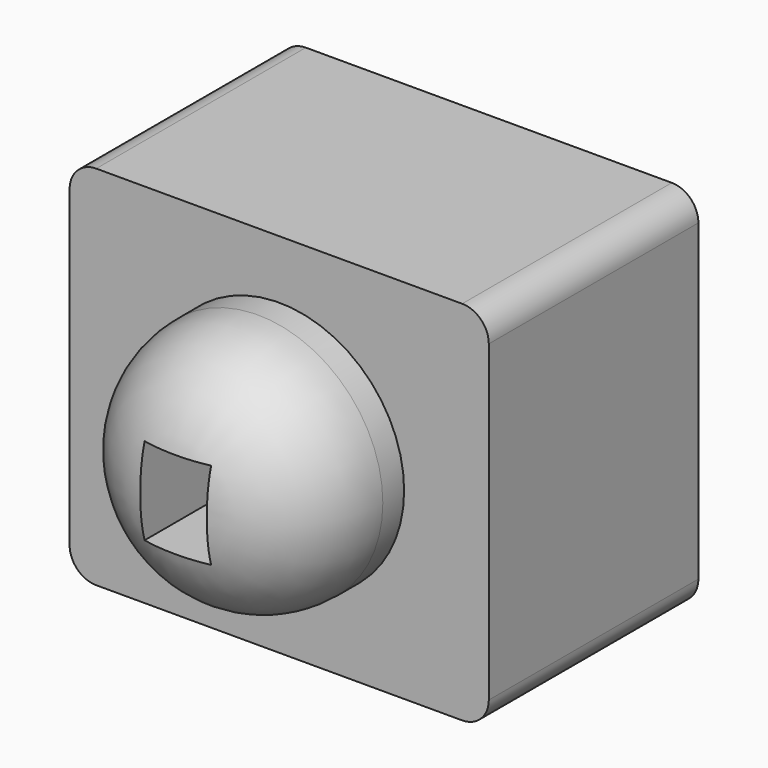
from build123d import *

# Parameters (mm, degrees)
F0_W     = 80
F0_H     = 70
F1_DEPTH = 50
F2_R     = 23.84042
F3_DEPTH = 25.4
F4_R     = 5.08
F5_R     = 20.32
F6_W     = 12.7
F6_H     = 16.662312
F7_DEPTH = 75.4


with BuildPart() as f1:
    # F0 (on Front) → F1 (new body)
    with BuildSketch(Plane.XZ):
        Rectangle(F0_W, F0_H)
    extrude(amount=F1_DEPTH)

    # F2 (on face) → F3 (join)
    with BuildSketch(Plane.XZ.offset(50)):
        Circle(F2_R)
    extrude(amount=F3_DEPTH)

    # F4
    f4_edges = [f1.edges().sort_by_distance(p)[0] for p in [
        (40, -25, 35),
        (40, -25, -35),
        (-40, -25, 35),
        (-40, -25, -35),
    ]]
    fillet(f4_edges, radius=F4_R)

    # F5
    f5_edges = [f1.edges().sort_by_distance(p)[0] for p in [
        (-23.84042, -75.4, 0),
    ]]
    fillet(f5_edges, radius=F5_R)

    # F6 (on face) → F7 (cut, through all)
    with BuildSketch(Plane.XZ.offset(75.4)):
        Rectangle(F6_W, F6_H)
    extrude(amount=-F7_DEPTH, mode=Mode.SUBTRACT)


solid = f1.part
